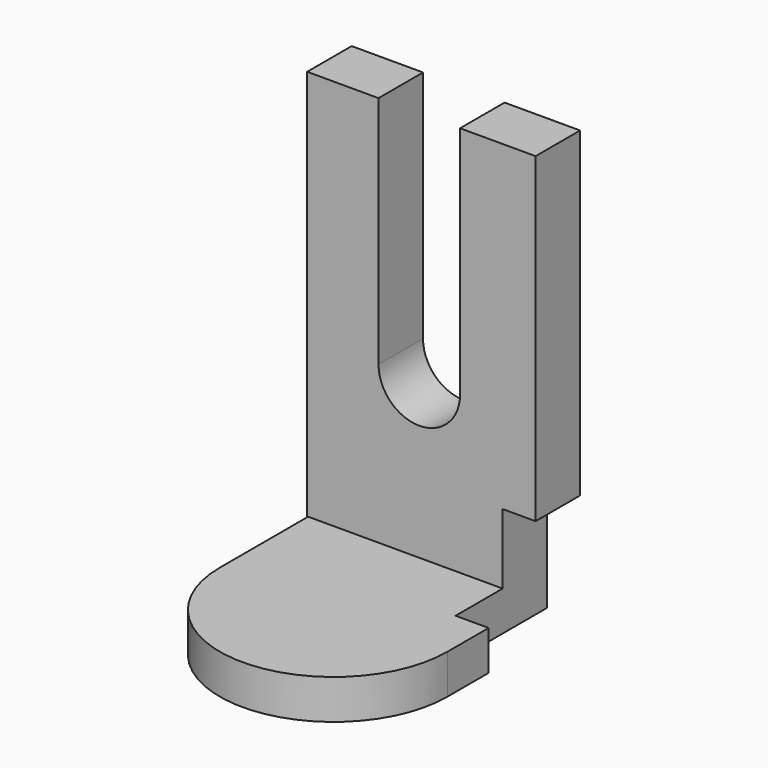
from build123d import *

# Parameters (mm, degrees)
F0_W     = 54.2243942618
F0_H     = 102.3101732135
F1_DEPTH = 13.208
F2_W     = 19.3572593853
F2_H     = 55.7058900595
F3_DEPTH = 42.164
F6_W     = 54.037803784
F6_H     = 39.4023768604
F7_DEPTH = 9.398
F4_W     = 15.2707248926
F4_H     = 29.6811275184
F8_DEPTH = 27.178


with BuildPart() as f1:
    # F0 (on Front) → F1 (new body)
    with BuildSketch(Plane.XZ):
        with Locations((-0.0431220978, 4.4882334769)):
            Rectangle(F0_W, F0_H)
    extrude(amount=F1_DEPTH)

    # F2 (on Front) → F3 (cut)
    with BuildSketch(Plane.XZ):
        with Locations((-0.5377004854, 27.8529450297)):
            Rectangle(F2_W, F2_H)
        with BuildLine():
            Line((9.1409292072, 0), (-10.2163301781, 0))
            ThreePointArc((-10.2163301781, 0), (-0.5377004854, -9.6786296926), (9.1409292072, 0))
        make_face()
    extrude(amount=F3_DEPTH, mode=Mode.SUBTRACT)

    # F6 (on offset) → F7 (join)
    with BuildSketch(Plane(origin=(0, 0, -46.6668531299), x_dir=(1, 0, 0), z_dir=(0, 0, -1))):
        with Locations((0.077442266, 19.7011884302)):
            Rectangle(F6_W, F6_H)
        with BuildLine():
            ThreePointArc((27.0963441581, 39.4023768604), (0.077442266, 66.4212787524), (-26.941459626, 39.4023768604))
            Line((-26.941459626, 39.4023768604), (27.0963441581, 39.4023768604))
        make_face()
    extrude(amount=-F7_DEPTH)

    # F4 (on Front) → F8 (cut)
    with BuildSketch(Plane.XZ):
        with Locations((26.8850810826, -35.4883056134)):
            Rectangle(F4_W, F4_H)
    extrude(amount=F8_DEPTH, mode=Mode.SUBTRACT)


solid = f1.part
